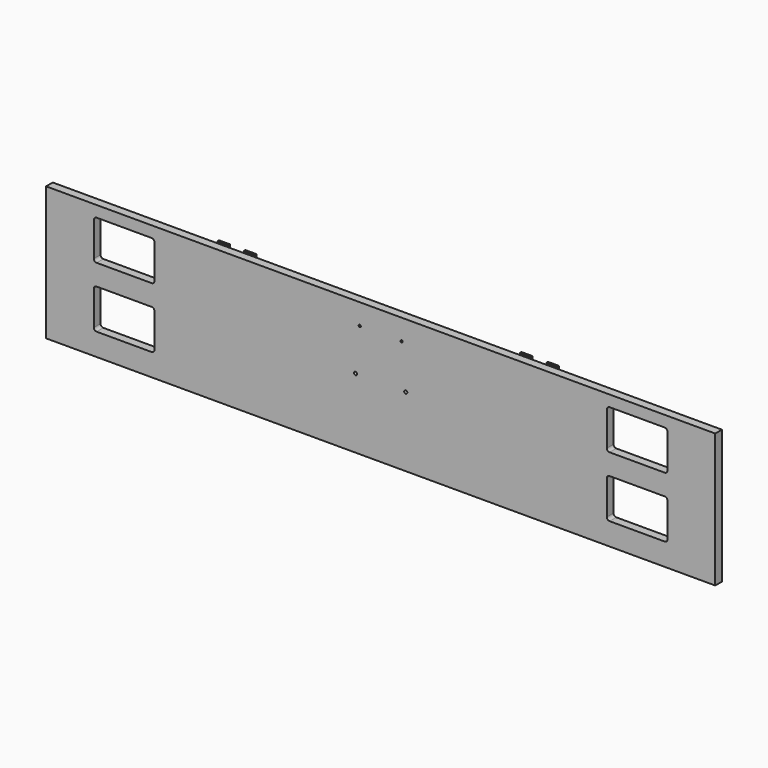
from build123d import *

# Parameters (mm, degrees)
F0_W     = 1524
F0_H     = 304.8
F0_R     = 3.5179
F0_R_2   = 2.4892
F1_DEPTH = 19.05
F3_W     = 25.4
F3_H     = 76.2
F3_R     = 6.35
F4_DEPTH = 25.4
F6_DEPTH = 387.35
F7_W     = 34.925
F7_H     = 156.405198
F7_W_2   = 603.25
F7_H_2   = 168.995904
F7_H_3   = 172.44594
F8_DEPTH = 151.638


with BuildPart() as f1:
    # F0 (on Front) → F1 (new body)
    with BuildSketch(Plane.XZ):
        with Locations((0, 152.4)):
            Rectangle(F0_W, F0_H)
        with BuildLine():
            ThreePointArc((-653.25625, 134.9375), (-651.396378, 139.427628), (-646.90625, 141.2875))
            Line((-646.90625, 141.2875), (-521.49375, 141.2875))
            ThreePointArc((-521.49375, 141.2875), (-517.003622, 139.427628), (-515.14375, 134.9375))
            Line((-515.14375, 134.9375), (-515.14375, 57.15))
            ThreePointArc((-515.14375, 57.15), (-517.003622, 52.659872), (-521.49375, 50.8))
            Line((-521.49375, 50.8), (-646.90625, 50.8))
            ThreePointArc((-646.90625, 50.8), (-651.396378, 52.659872), (-653.25625, 57.15))
            Line((-653.25625, 57.15), (-653.25625, 134.9375))
        make_face(mode=Mode.SUBTRACT)
        with BuildLine():
            Line((646.90625, 50.8), (521.49375, 50.8))
            ThreePointArc((521.49375, 50.8), (517.003622, 52.659872), (515.14375, 57.15))
            Line((515.14375, 57.15), (515.14375, 134.9375))
            ThreePointArc((515.14375, 134.9375), (517.003622, 139.427628), (521.49375, 141.2875))
            Line((521.49375, 141.2875), (646.90625, 141.2875))
            ThreePointArc((646.90625, 141.2875), (651.396378, 139.427628), (653.25625, 134.9375))
            Line((653.25625, 134.9375), (653.25625, 57.15))
            ThreePointArc((653.25625, 57.15), (651.396378, 52.659872), (646.90625, 50.8))
        make_face(mode=Mode.SUBTRACT)
        with Locations((-57.15, 158.75)):
            Circle(F0_R, mode=Mode.SUBTRACT)
        with BuildLine():
            ThreePointArc((-653.25625, 273.05), (-651.396378, 277.540128), (-646.90625, 279.4))
            Line((-646.90625, 279.4), (-521.49375, 279.4))
            ThreePointArc((-521.49375, 279.4), (-517.003622, 277.540128), (-515.14375, 273.05))
            Line((-515.14375, 273.05), (-515.14375, 195.2625))
            ThreePointArc((-515.14375, 195.2625), (-517.003622, 190.772372), (-521.49375, 188.9125))
            Line((-521.49375, 188.9125), (-646.90625, 188.9125))
            ThreePointArc((-646.90625, 188.9125), (-651.396378, 190.772372), (-653.25625, 195.2625))
            Line((-653.25625, 195.2625), (-653.25625, 273.05))
        make_face(mode=Mode.SUBTRACT)
        with Locations((-47.625, 257.175)):
            Circle(F0_R_2, mode=Mode.SUBTRACT)
        with Locations((57.15, 158.75)):
            Circle(F0_R, mode=Mode.SUBTRACT)
        with Locations((47.625, 257.175)):
            Circle(F0_R_2, mode=Mode.SUBTRACT)
        with BuildLine():
            Line((653.25625, 273.05), (653.25625, 195.2625))
            ThreePointArc((653.25625, 195.2625), (651.396378, 190.772372), (646.90625, 188.9125))
            Line((646.90625, 188.9125), (521.49375, 188.9125))
            ThreePointArc((521.49375, 188.9125), (517.003622, 190.772372), (515.14375, 195.2625))
            Line((515.14375, 195.2625), (515.14375, 273.05))
            ThreePointArc((515.14375, 273.05), (517.003622, 277.540128), (521.49375, 279.4))
            Line((521.49375, 279.4), (646.90625, 279.4))
            ThreePointArc((646.90625, 279.4), (651.396378, 277.540128), (653.25625, 273.05))
        make_face(mode=Mode.SUBTRACT)
    extrude(amount=F1_DEPTH)


with BuildPart() as f4:
    # F3 (on face) → F4 (new body)
    with BuildSketch(Plane.XY.offset(157.1625)):
        with Locations((-374.65, 101.6)):
            Rectangle(F3_W, F3_H)
        with Locations((-374.65, 73.025)):
            Circle(F3_R, mode=Mode.SUBTRACT)
        with Locations((-374.65, 130.175)):
            Circle(F3_R, mode=Mode.SUBTRACT)
        with Locations((-314.325, 101.6)):
            Rectangle(F3_W, F3_H)
        with Locations((-314.325, 73.025)):
            Circle(F3_R, mode=Mode.SUBTRACT)
        with Locations((-314.325, 130.175)):
            Circle(F3_R, mode=Mode.SUBTRACT)
        with Locations((374.65, 101.6)):
            Rectangle(F3_W, F3_H)
        with Locations((374.65, 73.025)):
            Circle(F3_R, mode=Mode.SUBTRACT)
        with Locations((374.65, 130.175)):
            Circle(F3_R, mode=Mode.SUBTRACT)
        with Locations((314.325, 101.6)):
            Rectangle(F3_W, F3_H)
        with Locations((314.325, 73.025)):
            Circle(F3_R, mode=Mode.SUBTRACT)
        with Locations((314.325, 130.175)):
            Circle(F3_R, mode=Mode.SUBTRACT)
    extrude(amount=-F4_DEPTH)


with BuildPart() as f6:
    # F5 (on Right) → F6 (new body, symmetric)
    with BuildSketch(Plane.YZ):
        Polygon((0, 161.9885), (0, 157.1625), (4.826, 157.1625), (151.638, 157.1625), (151.638, 161.9885), (4.826, 161.9885), (4.826, 308.8005), (0, 308.8005), align=None)
    extrude(amount=F6_DEPTH, both=True)

    # F7 (on face) → F8 (cut, through all)
    with BuildSketch(Plane(origin=(0, 0, 0), x_dir=(-1, 0, 0), z_dir=(0, 1, 0))):
        with Locations((344.4875, 235.365099)):
            Rectangle(F7_W, F7_H)
        with Locations((0, 241.660452)):
            Rectangle(F7_W_2, F7_H_2)
        with Locations((-344.4875, 243.38547)):
            Rectangle(F7_W, F7_H_3)
    extrude(amount=F8_DEPTH, mode=Mode.SUBTRACT)


solid = Compound([f1.part, f4.part, f6.part])
